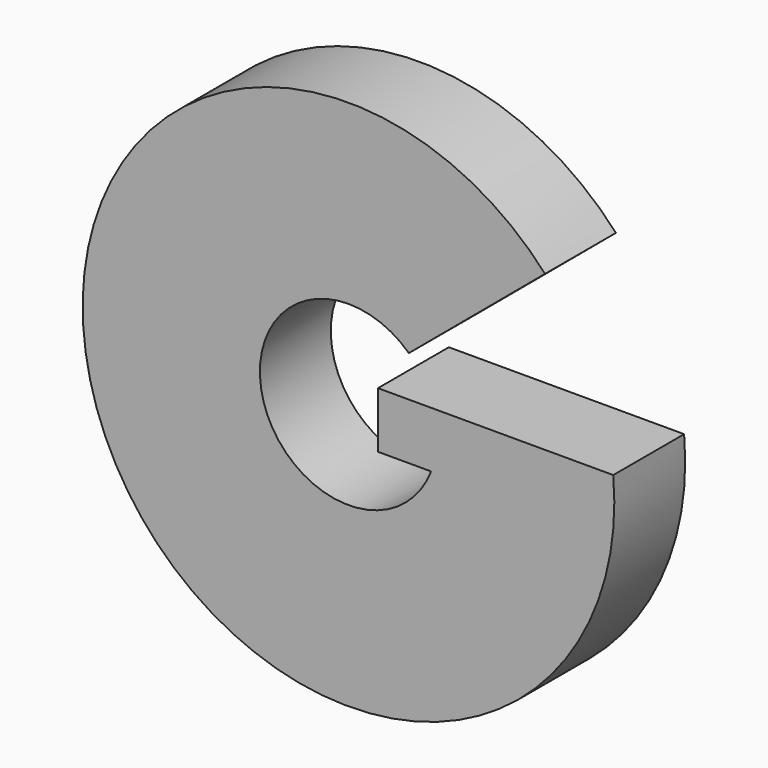
from build123d import *

# Parameters (mm, degrees)
F1_DEPTH = 12.7


with BuildPart() as f1:
    # F0 (on Front) → F1 (new body)
    with BuildSketch(Plane.XZ):
        with BuildLine():
            Line((8.649657, 9.299109), (28.170267, 25.652409))
            ThreePointArc((28.170267, 25.652409), (-34.873418, -15.344534), (37.944519, 3.438532))
            Line((37.944519, 3.438532), (12.225649, 3.438532))
            Line((12.225649, 3.438532), (4.220448, 3.438532))
            Line((4.220448, 3.438532), (4.220448, -4.592797))
            Line((4.220448, -4.592797), (11.840448, -4.592797))
            ThreePointArc((11.840448, -4.592797), (-12.377696, -2.842997), (8.649657, 9.299109))
        make_face()
    extrude(amount=F1_DEPTH)


solid = f1.part
